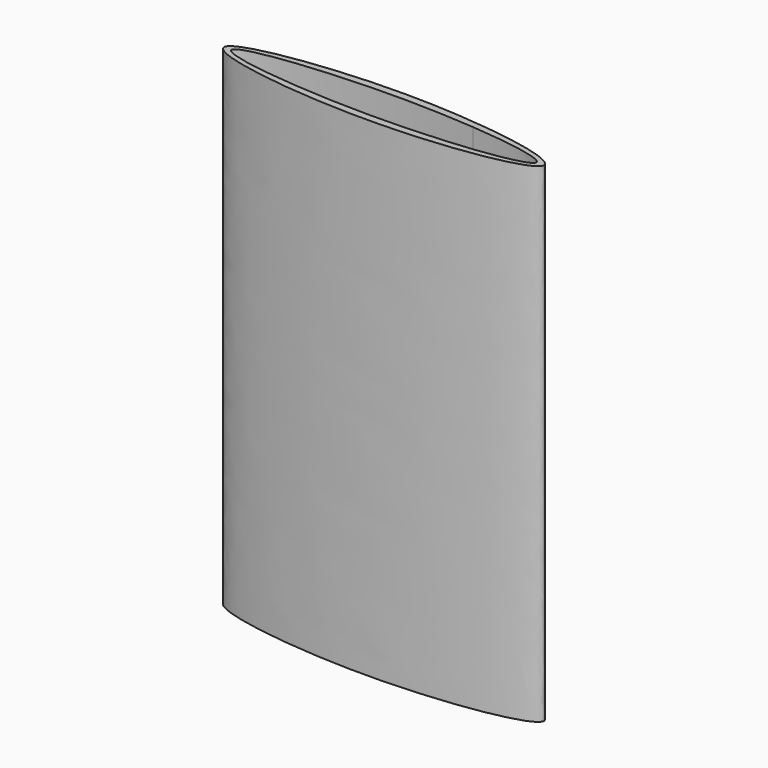
from build123d import *

# Parameters (mm, degrees)
F1_DEPTH = 130


with BuildPart() as f1:
    # F0 (on Top) → F1 (new body)
    with BuildSketch(Plane.XY):
        with BuildLine():
            Line((0, 7), (0, 5))
            add(Edge.make_bspline(
                [(0, 5), (7.0327511955, 5), (14.065502391, 4.6984631039), (20.25, 4.2001119768)],
                knots=[0, 0, 0, 0, 0.1736481777, 0.1736481777, 0.1736481777, 0.1736481777], degree=3))
            add(Edge.make_bspline(
                [(20.25, 4.2001119768), (31.8730535329, 3.2635182233), (40.5, 1.6317591117), (40.5, 0)],
                knots=[0.1736481777, 0.1736481777, 0.1736481777, 0.1736481777, 0.5, 0.5, 0.5, 0.5], degree=3))
            add(Edge.make_bspline(
                [(40.5, 0), (40.5, -1.6317591117), (31.8730535329, -3.2635182233), (20.25, -4.2001119768)],
                knots=[0.5, 0.5, 0.5, 0.5, 0.8263518223, 0.8263518223, 0.8263518223, 0.8263518223], degree=3))
            add(Edge.make_bspline(
                [(20.25, -4.2001119768), (14.065502391, -4.6984631039), (7.0327511955, -5), (0, -5)],
                knots=[0.8263518223, 0.8263518223, 0.8263518223, 0.8263518223, 1, 1, 1, 1], degree=3))
            Line((0, -5), (0, -7))
            add(Edge.make_bspline(
                [(0, 7), (21.25, 7), (63.75, 0), (21.25, -7), (0, -7)],
                knots=[0, 0, 0, 0, 0.25, 0.5, 0.5, 0.5, 0.5], degree=3))
        make_face()
        with BuildLine():
            add(Edge.make_bspline(
                [(0, 5), (-20.25, 5), (-60.75, 0), (-20.25, -5), (0, -5)],
                knots=[0, 0, 0, 0, 0.5, 1, 1, 1, 1], degree=3))
            Line((0, 5), (0, 7))
            add(Edge.make_bspline(
                [(0, -7), (-21.25, -7), (-63.75, 0), (-21.25, 7), (0, 7)],
                knots=[0.5, 0.5, 0.5, 0.5, 0.75, 1, 1, 1, 1], degree=3))
            Line((0, -7), (0, -5))
        make_face()
    extrude(amount=F1_DEPTH)


solid = f1.part
